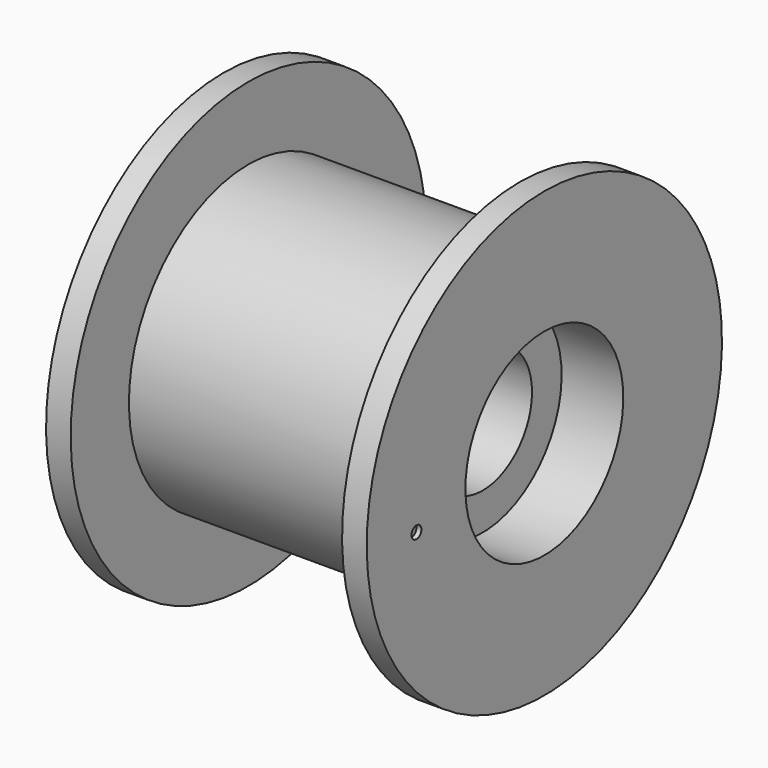
from build123d import *

# Parameters (mm, degrees)
F3_D     = 5
F4_R     = 0.25
F5_DEPTH = 0.2
F6_R     = 0.25
F7_DEPTH = 0.2


with BuildPart() as f1:
    # F0 (on Front) → F1 (revolve)
    with BuildSketch(Plane.XZ):
        Polygon((-3.628851, 6.336789), (-4.628851, 6.336789), (-4.628851, 1.336789), (-2.128851, 1.336789), (-2.128851, -2.663211), (5.871149, -2.663211), (5.871149, 1.336789), (8.371149, 1.336789), (8.371149, 6.336789), (7.371149, 6.336789), (7.371149, 3.386789), (-3.628851, 3.386789), align=None)
    revolve(axis=Axis((1.871149, 0, -2.663211), (1, 0, 0)))

    # F3 (through all)
    with Locations(Plane(origin=(-2.128851, 0, 0), x_dir=(0, -1, 0), z_dir=(-1, 0, 0))):
        with Locations((0, -2.663211)):
            Hole(F3_D / 2)

    # F4 (on face) → F5 (cut)
    with BuildSketch(Plane.YZ.offset(8.371149)):
        with Locations((-6.479844, -3.203344)):
            Circle(F4_R)
    extrude(amount=-F5_DEPTH, mode=Mode.SUBTRACT)

    # F6 (on face) → F7 (cut)
    with BuildSketch(Plane(origin=(-4.628851, 0, 0), x_dir=(0, -1, 0), z_dir=(-1, 0, 0))):
        with Locations((-6.352625, -3.346852)):
            Circle(F6_R)
    extrude(amount=-F7_DEPTH, mode=Mode.SUBTRACT)


solid = f1.part
